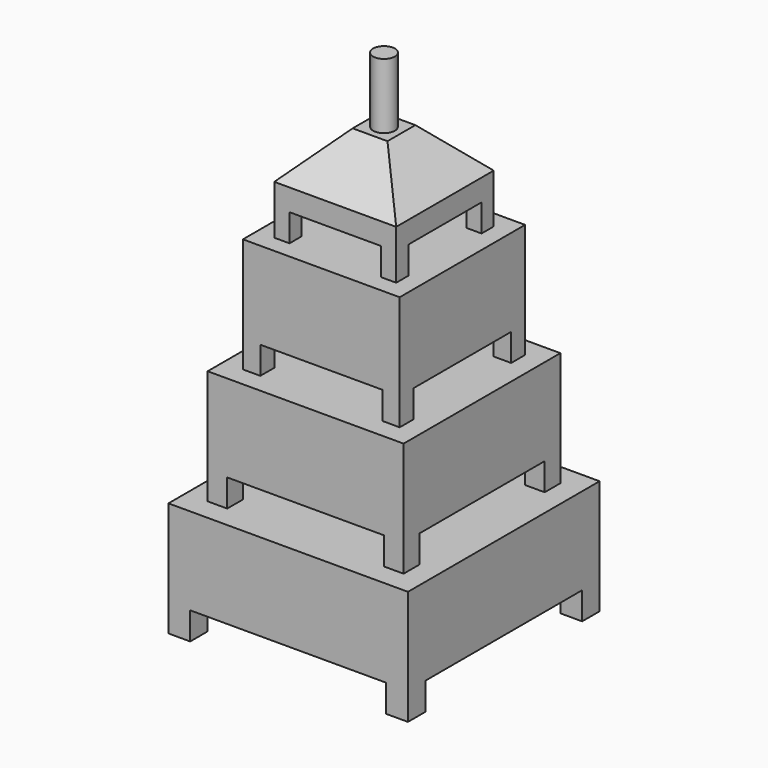
from build123d import *

# Parameters (mm, degrees)
F0_W      = 5
F0_H      = 5
F1_DEPTH  = 6.3
F2_W      = 5
F2_H      = 5
F3_DEPTH  = 20
F4_W      = 4.5
F4_H      = 4.5
F5_DEPTH  = 6.3
F6_W      = 45
F6_H      = 45
F7_DEPTH  = 20
F8_W      = 4
F8_H      = 4
F9_DEPTH  = 6.3
F10_W     = 4
F10_H     = 4
F11_DEPTH = 20
F12_W     = 3.5
F12_H     = 3.5
F13_DEPTH = 6.3
F14_W     = 3.5
F14_H     = 3.5
F15_DEPTH = 15
F16_SIZE  = 10
F17_R     = 2.5
F18_DEPTH = 15
F19_DEPTH = 6
F20_DEPTH = 6
F21_DEPTH = 6


with BuildPart() as f1:
    # F0 (on Top) → F1 (new body)
    with BuildSketch(Plane.XY):
        with Locations((25, 25)):
            Rectangle(F0_W, F0_H)
    extrude(amount=F1_DEPTH)



with BuildPart() as f1b:
    # F0 (on Top) → F1, piece 2 (new body)
    with BuildSketch(Plane.XY):
        with Locations((-25, 25)):
            Rectangle(F0_W, F0_H)
    extrude(amount=F1_DEPTH)


with BuildPart() as f1c:
    # F0 (on Top) → F1, piece 3 (new body)
    with BuildSketch(Plane.XY):
        with Locations((-25, -25)):
            Rectangle(F0_W, F0_H)
    extrude(amount=F1_DEPTH)


with BuildPart() as f1d:
    # F0 (on Top) → F1, piece 4 (new body)
    with BuildSketch(Plane.XY):
        with Locations((25, -25)):
            Rectangle(F0_W, F0_H)
    extrude(amount=F1_DEPTH)


with BuildPart() as f1_1:
    add(f1.part)

    add(f1b.part)  # F3 merges F1b

    add(f1c.part)  # F3 merges F1c

    add(f1d.part)  # F3 merges F1d
    # F2 (on face) → F3 (join)
    with BuildSketch(Plane.XY.offset(6.3)):
        Polygon((22.5, 22.5), (22.5, 27.5), (-27.5, 27.5), (-27.5, -27.5), (27.5, -27.5), (27.5, 22.5), align=None)
        with Locations((25, 25)):
            Rectangle(F2_W, F2_H)
    extrude(amount=F3_DEPTH)

    # F4 (on face) → F21 (cut)
    with BuildSketch(Plane.XY.offset(26.3)):
        with Locations((-20.25, 20.25)):
            Rectangle(F4_W, F4_H)
        with Locations((20.25, 20.25)):
            Rectangle(F4_W, F4_H)
        with Locations((20.25, -20.25)):
            Rectangle(F4_W, F4_H)
        with Locations((-20.25, -20.25)):
            Rectangle(F4_W, F4_H)
    extrude(amount=-F21_DEPTH, mode=Mode.SUBTRACT)


with BuildPart() as f5:
    # F4 (on face) → F5 (new body)
    with BuildSketch(Plane.XY.offset(26.3)):
        with Locations((-20.25, 20.25)):
            Rectangle(F4_W, F4_H)
    extrude(amount=F5_DEPTH)



with BuildPart() as f5b:
    # F4 (on face) → F5, piece 2 (new body)
    with BuildSketch(Plane.XY.offset(26.3)):
        with Locations((20.25, 20.25)):
            Rectangle(F4_W, F4_H)
    extrude(amount=F5_DEPTH)


with BuildPart() as f5c:
    # F4 (on face) → F5, piece 3 (new body)
    with BuildSketch(Plane.XY.offset(26.3)):
        with Locations((20.25, -20.25)):
            Rectangle(F4_W, F4_H)
    extrude(amount=F5_DEPTH)


with BuildPart() as f5d:
    # F4 (on face) → F5, piece 4 (new body)
    with BuildSketch(Plane.XY.offset(26.3)):
        with Locations((-20.25, -20.25)):
            Rectangle(F4_W, F4_H)
    extrude(amount=F5_DEPTH)


with BuildPart() as f5_1:
    add(f5.part)

    add(f5b.part)  # F7 merges F5b

    add(f5c.part)  # F7 merges F5c

    add(f5d.part)  # F7 merges F5d
    # F6 (on face) → F7 (join)
    with BuildSketch(Plane.XY.offset(32.6)):
        Rectangle(F6_W, F6_H)
    extrude(amount=F7_DEPTH)

    # F8 (on face) → F19 (cut)
    with BuildSketch(Plane.XY.offset(52.6)):
        with Locations((-16, 16)):
            Rectangle(F8_W, F8_H)
        with Locations((16, 16)):
            Rectangle(F8_W, F8_H)
        with Locations((16, -16)):
            Rectangle(F8_W, F8_H)
        with Locations((-16, -16)):
            Rectangle(F8_W, F8_H)
    extrude(amount=-F19_DEPTH, mode=Mode.SUBTRACT)


with BuildPart() as f9:
    # F8 (on face) → F9 (new body)
    with BuildSketch(Plane.XY.offset(52.6)):
        with Locations((16, 16)):
            Rectangle(F8_W, F8_H)
    extrude(amount=F9_DEPTH)



with BuildPart() as f9b:
    # F8 (on face) → F9, piece 2 (new body)
    with BuildSketch(Plane.XY.offset(52.6)):
        with Locations((16, -16)):
            Rectangle(F8_W, F8_H)
    extrude(amount=F9_DEPTH)


with BuildPart() as f9c:
    # F8 (on face) → F9, piece 3 (new body)
    with BuildSketch(Plane.XY.offset(52.6)):
        with Locations((-16, -16)):
            Rectangle(F8_W, F8_H)
    extrude(amount=F9_DEPTH)


with BuildPart() as f9d:
    # F8 (on face) → F9, piece 4 (new body)
    with BuildSketch(Plane.XY.offset(52.6)):
        with Locations((-16, 16)):
            Rectangle(F8_W, F8_H)
    extrude(amount=F9_DEPTH)


with BuildPart() as f9_1:
    add(f9.part)

    add(f9b.part)  # F11 merges F9b

    add(f9c.part)  # F11 merges F9c

    add(f9d.part)  # F11 merges F9d
    # F10 (on face) → F11 (join)
    with BuildSketch(Plane.XY.offset(58.9)):
        with Locations((16, 16)):
            Rectangle(F10_W, F10_H)
        Polygon((14, 14), (14, 18), (-14, 18), (-14, 14), (-18, 14), (-18, -14), (-14, -14), (-14, -18), (14, -18), (14, -14), (18, -14), (18, 14), align=None)
        with Locations((-16, 16)):
            Rectangle(F10_W, F10_H)
        with Locations((16, -16)):
            Rectangle(F10_W, F10_H)
        with Locations((-16, -16)):
            Rectangle(F10_W, F10_H)
    extrude(amount=F11_DEPTH)

    # F12 (on face) → F13 (join)
    with BuildSketch(Plane.XY.offset(78.9)):
        with Locations((-12.25, 12.25)):
            Rectangle(F12_W, F12_H)
        with Locations((12.25, 12.25)):
            Rectangle(F12_W, F12_H)
        with Locations((12.25, -12.25)):
            Rectangle(F12_W, F12_H)
        with Locations((-12.25, -12.25)):
            Rectangle(F12_W, F12_H)
    extrude(amount=F13_DEPTH)

    # F14 (on face) → F15 (join)
    with BuildSketch(Plane.XY.offset(85.2)):
        Polygon((10.5, 10.5), (10.5, 14), (-14, 14), (-14, -14), (14, -14), (14, 10.5), align=None)
        with Locations((12.25, 12.25)):
            Rectangle(F14_W, F14_H)
    extrude(amount=F15_DEPTH)

    # F16
    f16_edges = [f9_1.edges().sort_by_distance(p)[0] for p in [
        (0, -14, 100.2),
        (-14, 0, 100.2),
        (0, 14, 100.2),
        (14, 0, 100.2),
    ]]
    chamfer(f16_edges, length=F16_SIZE)

    # F17 (on face) → F18 (join)
    with BuildSketch(Plane.XY.offset(100.2)):
        Circle(F17_R)
    extrude(amount=F18_DEPTH)

    # F12 (on face) → F20 (cut)
    with BuildSketch(Plane.XY.offset(78.9)):
        with Locations((-12.25, 12.25)):
            Rectangle(F12_W, F12_H)
        with Locations((12.25, 12.25)):
            Rectangle(F12_W, F12_H)
        with Locations((12.25, -12.25)):
            Rectangle(F12_W, F12_H)
        with Locations((-12.25, -12.25)):
            Rectangle(F12_W, F12_H)
    extrude(amount=-F20_DEPTH, mode=Mode.SUBTRACT)


solid = Compound([f1_1.part, f5_1.part, f9_1.part])
